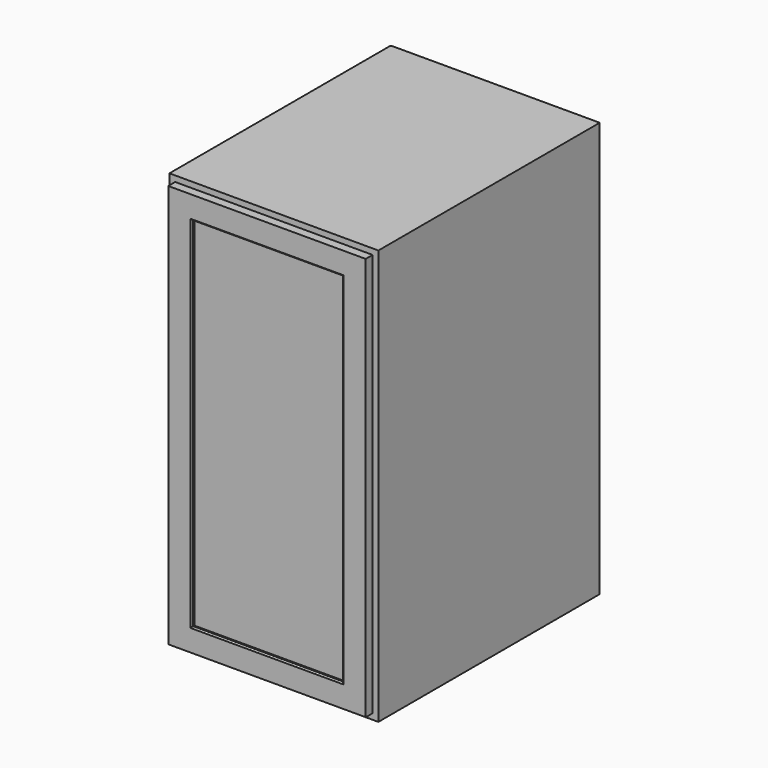
from build123d import *

# Parameters (mm, degrees)
F0_W     = 460.375
F0_H     = 609.6
F1_DEPTH = 914.4
F2_T     = -12.7
F3_W     = 460.375
F3_H     = 914.4
F3_W_2   = 444.5
F3_H_2   = 901.7
F3_W_3   = 434.975
F3_H_3   = 889
F3_W_4   = 377.825
F3_H_4   = 831.85
F4_DEPTH = 19.05
F3_W_5   = 330.2
F3_H_5   = 787.4
F5_DEPTH = 19.05
F6_W     = 330.2
F6_H     = 7.9375
F7_DEPTH = 787.4
F8_SIZE  = 3.175


with BuildPart() as f1:
    # F0 (on Top) → F1 (new body)
    with BuildSketch(Plane.XY):
        Rectangle(F0_W, F0_H)
    extrude(amount=F1_DEPTH)

    # F2
    f2_openings = [f1.faces().sort_by_distance(p)[0] for p in [
        (0, -304.8, 457.2),
    ]]
    offset(amount=F2_T, openings=f2_openings)

    # F3 (on face) → F4 (join)
    with BuildSketch(Plane.XZ.offset(304.8)):
        with Locations((0, 457.2)):
            Rectangle(F3_W, F3_H)
        with Locations((0, 457.2)):
            Rectangle(F3_W_2, F3_H_2, mode=Mode.SUBTRACT)
        with Locations((0, 457.2)):
            Rectangle(F3_W_3, F3_H_3)
        with Locations((0, 457.2)):
            Rectangle(F3_W_4, F3_H_4, mode=Mode.SUBTRACT)
    extrude(amount=-F4_DEPTH)

    # F3 (on face) → F5 (join)
    with BuildSketch(Plane.XZ.offset(304.8)):
        with Locations((0, 457.2)):
            Rectangle(F3_W_3, F3_H_3)
        with Locations((0, 457.2)):
            Rectangle(F3_W_4, F3_H_4, mode=Mode.SUBTRACT)
        with Locations((0, 457.2)):
            Rectangle(F3_W_4, F3_H_4)
        with Locations((0, 457.2)):
            Rectangle(F3_W_5, F3_H_5, mode=Mode.SUBTRACT)
    extrude(amount=F5_DEPTH)

    # F6 (on face) → F7 (join, through all)
    with BuildSketch(Plane(origin=(0, 0, 850.9), x_dir=(1, 0, 0), z_dir=(0, 0, -1))):
        with Locations((0, 313.53125)):
            Rectangle(F6_W, F6_H)
    extrude(amount=F7_DEPTH)

    # F8
    f8_edges = [f1.edges().sort_by_distance(p)[0] for p in [
        (0, -323.85, 63.5),
        (-165.1, -323.85, 457.2),
        (165.1, -323.85, 457.2),
        (0, -323.85, 850.9),
        (-230.1875, 304.8, 457.2),
    ]]
    chamfer(f8_edges, length=F8_SIZE)


solid = f1.part
